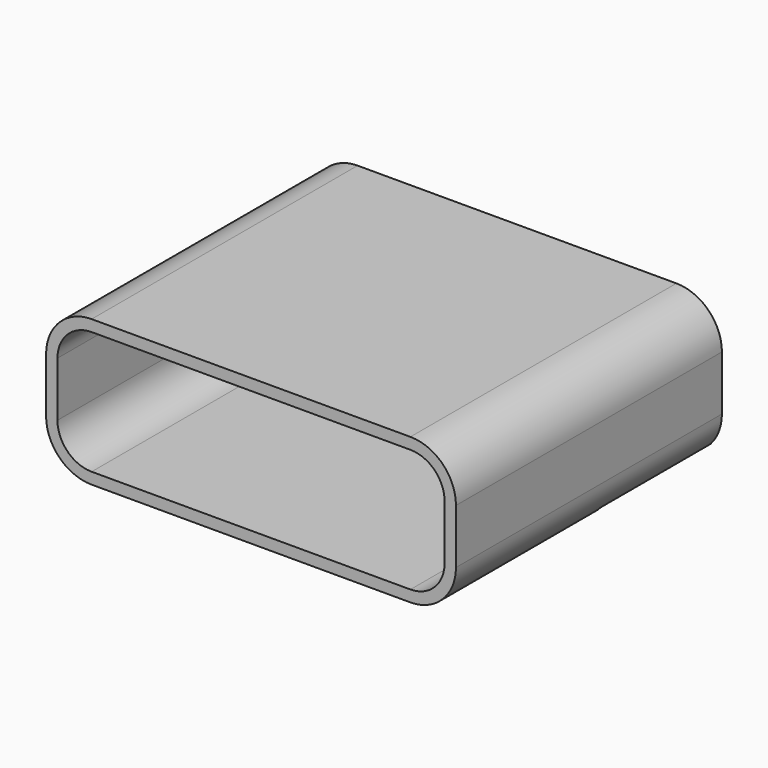
from build123d import *

# Parameters (mm, degrees)
BOX067_W               = 8.5
BOX067_H               = 2.95
BOX067_DEPTH           = 3
FILLET011_R            = 0.75
EXTRUDE016_DEPTH       = 7.3
CUT016_PLACEMENT_ANGLE = 90


with BuildPart() as clone037:
    # Box067 → Box067 (new body)
    with BuildSketch(Plane(origin=(-4.25, 0, 0), x_dir=(1, 0, 0), z_dir=(0, 0, 1))):
        with Locations((4.25, 1.475)):
            Rectangle(BOX067_W, BOX067_H)
    extrude(amount=BOX067_DEPTH)

    # Fillet011
    fillet011_edges = [clone037.edges().sort_by_distance(p)[0] for p in [
        (-4.25, 2.95, 1.5),
        (4.25, 2.95, 1.5),
    ]]
    fillet(fillet011_edges, radius=FILLET011_R)


with BuildPart() as shield:
    # Sketch017 → Extrude016 (new body)
    with BuildSketch(Plane.XY):
        with BuildLine():
            Line((-3.5, 3.2), (3.5, 3.2))
            ThreePointArc((4.5, 2.2), (4.207107, 2.907107), (3.5, 3.2))
            Line((4.5, 2.2), (4.5, 1))
            ThreePointArc((3.5, 0), (4.207107, 0.292893), (4.5, 1))
            Line((-3.5, 0), (3.5, 0))
            ThreePointArc((-4.5, 1), (-4.207107, 0.292893), (-3.5, 0))
            Line((-4.5, 2.2), (-4.5, 1))
            ThreePointArc((-3.5, 3.2), (-4.207107, 2.907107), (-4.5, 2.2))
        make_face()
        with BuildLine():
            Line((-3.5, 2.95), (3.5, 2.95))
            ThreePointArc((4.25, 2.2), (4.03033, 2.73033), (3.5, 2.95))
            Line((4.25, 2.2), (4.25, 1))
            ThreePointArc((3.5, 0.25), (4.03033, 0.46967), (4.25, 1))
            Line((3.5, 0.25), (-3.5, 0.25))
            ThreePointArc((-4.25, 1), (-4.03033, 0.46967), (-3.5, 0.25))
            Line((-4.25, 1), (-4.25, 2.2))
            ThreePointArc((-3.5, 2.95), (-4.03033, 2.73033), (-4.25, 2.2))
        make_face(mode=Mode.SUBTRACT)
    extrude(amount=EXTRUDE016_DEPTH)

    # Cut016: cut Clone037
    add(clone037.part, mode=Mode.SUBTRACT)


with BuildPart() as shield_1:
    # Cut016 placement: moved
    add(shield.part.rotate(Axis((0, 0, 0), (1, 0, 0)), CUT016_PLACEMENT_ANGLE))


solid = shield_1.part
